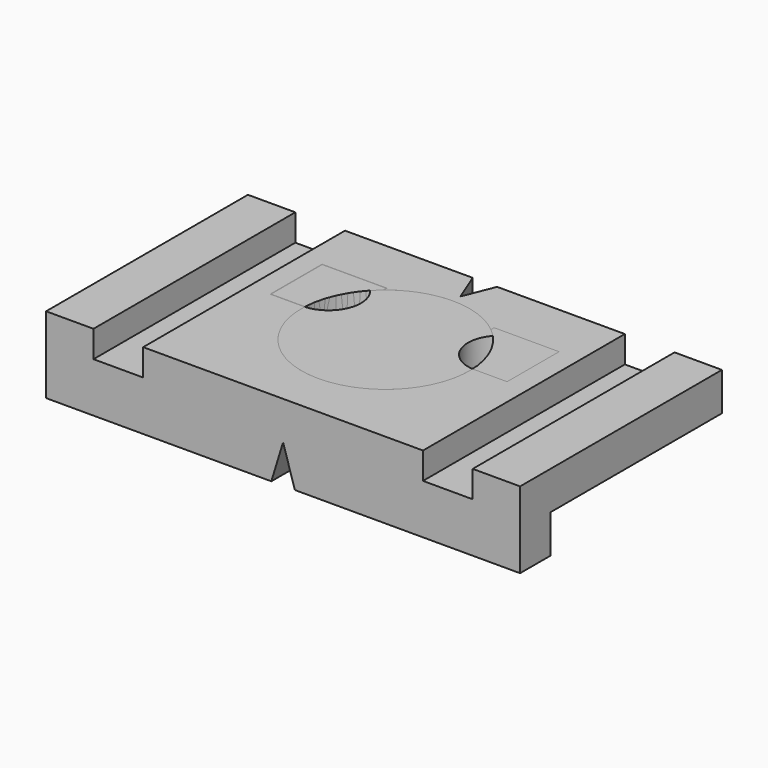
from build123d import *

# Parameters (mm, degrees)
PAD_DEPTH            = 62
SKETCH003_W          = 13
SKETCH003_H          = 8
POCKET_DEPTH         = 56.001
POCKET_DEPTH_BACK    = 10.001
POCKET001_DEPTH      = 10.001
POCKET002_DEPTH      = 10.001
SKETCH006_R          = 8.5
POCKET003_DEPTH      = 10.001
PAD001_DEPTH         = 8
SKETCH007_R          = 22
POCKET004_DEPTH      = 10.001
POCKET004_DEPTH_BACK = 10.001
SKETCH011_R          = 22
POCKET005_DEPTH      = 10.001
SKETCH009_R          = 8.5
POCKET006_DEPTH      = 10.001
POCKET007_START      = 5
SKETCH012_W          = 17
SKETCH012_H          = 17
POCKET007_DEPTH      = 5
SKETCH014_R          = 8.35
PAD002_DEPTH         = 10
PAD003_START         = 5
SKETCH015_W          = 16.7
SKETCH015_H          = 16.7
PAD003_DEPTH         = 5
SKETCH016_R          = 22
POCKET008_DEPTH      = 10.001


with BuildPart() as hingetemplatebasebody:
    # Sketch002 → Pad (new body, symmetric)
    with BuildSketch(Plane.YZ):
        Polygon((0, 0), (0, -10), (-10, -10), (-10, 10), (56, 10), (56, 0), align=None)
    extrude(amount=PAD_DEPTH, both=True)

    # Sketch003 → Pocket (cut, two sides)
    with BuildSketch(Plane.XZ) as pocket_sk:
        with Locations((-43.1, 7)):
            Rectangle(SKETCH003_W, SKETCH003_H)
        with Locations((43.1, 7)):
            Rectangle(SKETCH003_W, SKETCH003_H)
    extrude(amount=-POCKET_DEPTH, mode=Mode.SUBTRACT)
    extrude(pocket_sk.sketch, amount=POCKET_DEPTH_BACK, mode=Mode.SUBTRACT)

    # Sketch004 → Pocket001 (cut, through all)
    with BuildSketch(Plane.XY):
        Polygon((0, 48), (-4, 58), (4, 58), align=None)
    extrude(amount=POCKET001_DEPTH, mode=Mode.SUBTRACT)

    # Sketch005 → Pocket002 (cut, through all)
    with BuildSketch(Plane.XZ):
        Polygon((0, 0), (-4, -13), (4, -13), align=None)
    extrude(amount=POCKET002_DEPTH, mode=Mode.SUBTRACT)


with BuildPart() as hingetemplateholebody:
    # Body001 base: copy of HingeTemplateBaseBody
    add(hingetemplatebasebody.part)

    # Sketch006 → Pocket003 (cut, through all)
    with BuildSketch(Plane.XY):
        with Locations((-22.5, 33)):
            Circle(SKETCH006_R)
        with Locations((22.5, 33)):
            Circle(SKETCH006_R)
    extrude(amount=POCKET003_DEPTH, mode=Mode.SUBTRACT)


with BuildPart() as hingetemplatehingebody:
    # Body002 base: copy of HingeTemplateBaseBody
    add(hingetemplatebasebody.part)

    # Sketch008 → Pad001 (new body)
    with BuildSketch(Plane.XY):
        Polygon((-18.5, 33), (-20.5, 36.464102), (-24.5, 36.464102), (-26.5, 33), (-24.5, 29.535898), (-20.5, 29.535898), align=None)
        Polygon((24.5, 29.535898), (26.5, 33), (24.5, 36.464102), (20.5, 36.464102), (18.5, 33), (20.5, 29.535898), align=None)
    extrude(amount=-PAD001_DEPTH)

    # Sketch007 → Pocket004 (cut, two sides)
    with BuildSketch(Plane.XY) as pocket004_sk:
        with Locations((0, 23.5)):
            Circle(SKETCH007_R)
    extrude(amount=-POCKET004_DEPTH, mode=Mode.SUBTRACT)
    extrude(pocket004_sk.sketch, amount=POCKET004_DEPTH_BACK, mode=Mode.SUBTRACT)


with BuildPart() as obj1:
    # Body003 base: copy of HingeTemplateBaseBody
    add(hingetemplatebasebody.part)

    # Sketch011 → Pocket005 (cut, through all)
    with BuildSketch(Plane.XY):
        with Locations((0, 23.5)):
            Circle(SKETCH011_R)
    extrude(amount=POCKET005_DEPTH, mode=Mode.SUBTRACT)

    # Sketch009 → Pocket006 (cut, through all)
    with BuildSketch(Plane.XY):
        with Locations((-22.5, 33)):
            Circle(SKETCH009_R)
        with Locations((22.5, 33)):
            Circle(SKETCH009_R)
    extrude(amount=POCKET006_DEPTH, mode=Mode.SUBTRACT)

    # Sketch012 → Pocket007 (cut)
    with BuildSketch(Plane.XY.offset(POCKET007_START)):
        with Locations((-22.5, 33)):
            Rectangle(SKETCH012_W, SKETCH012_H)
        with Locations((22.5, 33)):
            Rectangle(SKETCH012_W, SKETCH012_H)
    extrude(amount=POCKET007_DEPTH, mode=Mode.SUBTRACT)


with BuildPart() as inlay:
    # Sketch014 → Pad002 (new body)
    with BuildSketch(Plane.XY):
        with Locations((-22.5, 33)):
            Circle(SKETCH014_R)
    extrude(amount=PAD002_DEPTH)

    # Sketch015 → Pad003 (join)
    with BuildSketch(Plane.XY.offset(PAD003_START)):
        with Locations((-22.5, 33)):
            Rectangle(SKETCH015_W, SKETCH015_H)
    extrude(amount=PAD003_DEPTH)

    # Sketch016 → Pocket008 (cut, through all)
    with BuildSketch(Plane.XY):
        with Locations((0, 23.5)):
            Circle(SKETCH016_R)
    extrude(amount=POCKET008_DEPTH, mode=Mode.SUBTRACT)


solid = Compound([hingetemplateholebody.part, hingetemplatehingebody.part, obj1.part, inlay.part])
